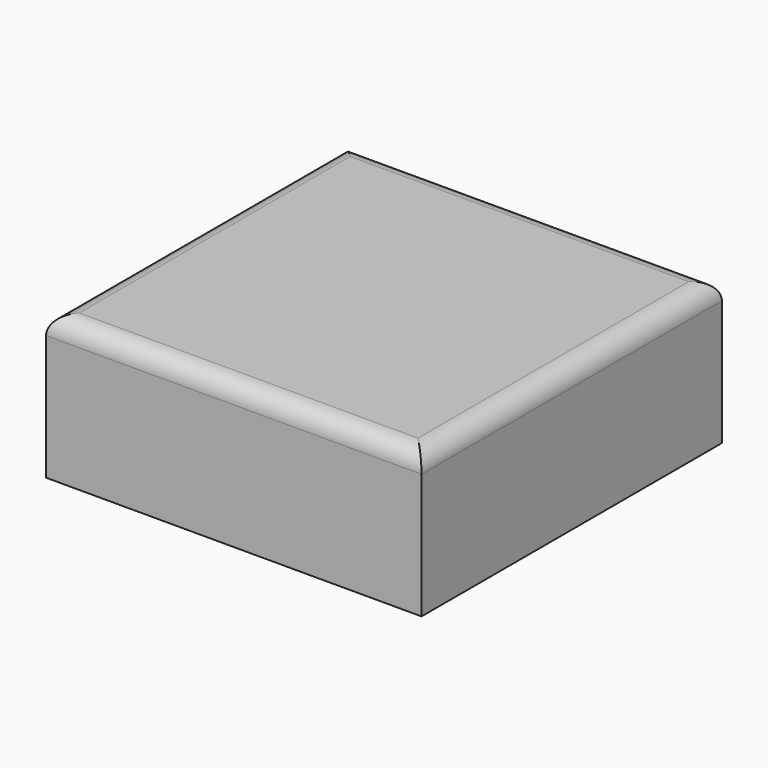
from build123d import *

# Parameters (mm, degrees)
BOX001_W     = 8
BOX001_H     = 8
BOX001_DEPTH = 3
BOX_W        = 10.2
BOX_H        = 10.2
BOX_DEPTH    = 3.9
FILLET_R     = 0.5
BOX004_W     = 3
BOX004_H     = 3
BOX004_DEPTH = 4
BOX003_W     = 7
BOX003_H     = 7
BOX003_DEPTH = 2.5
BOX002_W     = 7.96
BOX002_H     = 7.96
BOX002_DEPTH = 2.9


with BuildPart() as cube001:
    # Box001 → Box001 (new body)
    with BuildSketch(Plane(origin=(-4, -4, 0), x_dir=(1, 0, 0), z_dir=(0, 0, 1))):
        with Locations((4, 4)):
            Rectangle(BOX001_W, BOX001_H)
    extrude(amount=BOX001_DEPTH)


with BuildPart() as fillet_body:
    # Box → Box (new body)
    with BuildSketch(Plane(origin=(-5.1, -5.1, 0), x_dir=(1, 0, 0), z_dir=(0, 0, 1))):
        with Locations((5.1, 5.1)):
            Rectangle(BOX_W, BOX_H)
    extrude(amount=BOX_DEPTH)

    # Cut: cut Cube001
    add(cube001.part, mode=Mode.SUBTRACT)

    # Fillet
    fillet_edges = [fillet_body.edges().sort_by_distance(p)[0] for p in [
        (-5.1, 0, 3.9),
        (0, -5.1, 3.9),
        (0, 5.1, 3.9),
        (5.1, 0, 3.9),
    ]]
    fillet(fillet_edges, radius=FILLET_R)


with BuildPart() as cube004:
    # Box004 → Box004 (new body)
    with BuildSketch(Plane(origin=(-1.5, -1.5, 0), x_dir=(1, 0, 0), z_dir=(0, 0, 1))):
        with Locations((1.5, 1.5)):
            Rectangle(BOX004_W, BOX004_H)
    extrude(amount=BOX004_DEPTH)


with BuildPart() as fusion:
    # Box003 → Box003 (new body)
    with BuildSketch(Plane(origin=(-3.5, -3.5, 0), x_dir=(1, 0, 0), z_dir=(0, 0, 1))):
        with Locations((3.5, 3.5)):
            Rectangle(BOX003_W, BOX003_H)
    extrude(amount=BOX003_DEPTH)

    # Fusion: union Cube004
    add(cube004.part)


with BuildPart() as cut001:
    # Box002 → Box002 (new body)
    with BuildSketch(Plane(origin=(-3.98, -3.98, 0), x_dir=(1, 0, 0), z_dir=(0, 0, 1))):
        with Locations((3.98, 3.98)):
            Rectangle(BOX002_W, BOX002_H)
    extrude(amount=BOX002_DEPTH)

    # Cut001: cut Fusion
    add(fusion.part, mode=Mode.SUBTRACT)


solid = Compound([fillet_body.part, cut001.part])
